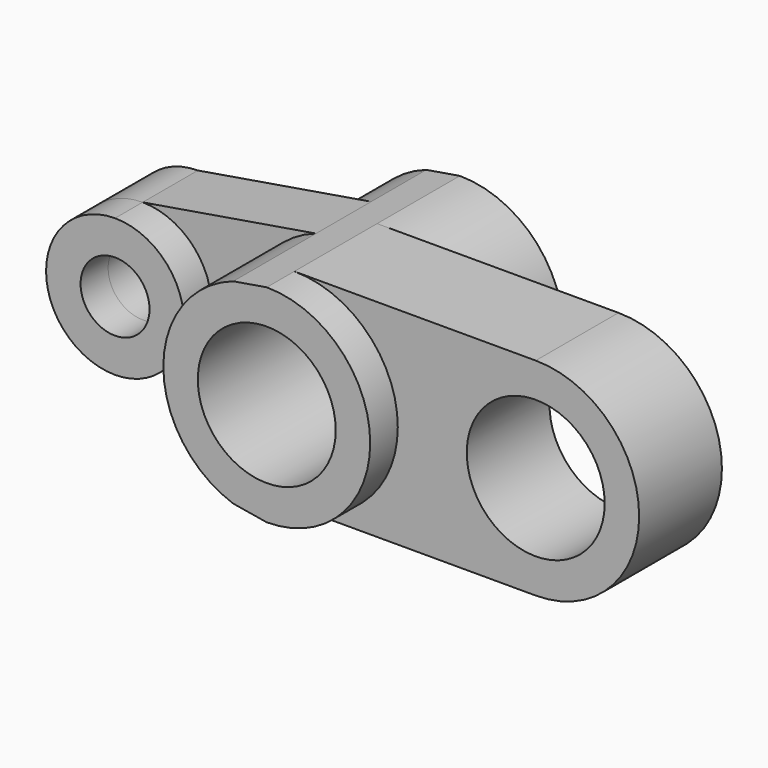
from build123d import *

# Parameters (mm, degrees)
F0_R     = 5
F1_DEPTH = 5
F0_R_2   = 10
F2_DEPTH = 15
F3_DEPTH = 10
F4_DEPTH = 5
F5_DEPTH = 20
F6_DEPTH = 10


with BuildPart() as f1:
    # F0 (on Front) → F1 (new body)
    with BuildSketch(Plane.XZ):
        with BuildLine():
            ThreePointArc((-20, 0), (-22.9289321881, 7.0710678119), (-30, 10))
            ThreePointArc((-30, 10), (-40, 0), (-30, -10))
            ThreePointArc((-30, -10), (-22.9289321881, -7.0710678119), (-20, 0))
        make_face()
        with Locations((-30, 0)):
            Circle(F0_R, mode=Mode.SUBTRACT)
    extrude(amount=F1_DEPTH)



with BuildPart() as f2:
    # F0 (on Front) → F2 (new body)
    with BuildSketch(Plane.XZ):
        with BuildLine():
            ThreePointArc((0, -15), (10.6066017178, -10.6066017178), (15, 0))
            ThreePointArc((15, 0), (10.6066017178, 10.6066017178), (0, 15))
            Line((0, 15), (-4.8648648649, 14.1891891892))
            ThreePointArc((-4.8648648649, 14.1891891892), (-15, 0), (-4.8648648649, -14.1891891892))
            Line((-4.8648648649, -14.1891891892), (0, -15))
        make_face()
        Circle(F0_R_2, mode=Mode.SUBTRACT)
    extrude(amount=F2_DEPTH)

    # F0 (on Front) → F3 (join)
    with BuildSketch(Plane.XZ):
        with BuildLine():
            ThreePointArc((50, 0), (45.6066017178, 10.6066017178), (35, 15))
            ThreePointArc((35, 15), (20, 0), (35, -15))
            ThreePointArc((35, -15), (45.6066017178, -10.6066017178), (50, 0))
        make_face()
        with Locations((35, 0)):
            Circle(F0_R_2, mode=Mode.SUBTRACT)
        with BuildLine():
            ThreePointArc((0, 15), (10.6066017178, 10.6066017178), (15, 0))
            ThreePointArc((15, 0), (10.6066017178, -10.6066017178), (0, -15))
            Line((0, -15), (35, -15))
            ThreePointArc((35, -15), (20, 0), (35, 15))
            Line((35, 15), (0, 15))
        make_face()
    extrude(amount=F3_DEPTH)

    # F0 (on Front) → F4 (join)
    with BuildSketch(Plane.XZ):
        with BuildLine():
            ThreePointArc((50, 0), (45.6066017178, 10.6066017178), (35, 15))
            ThreePointArc((35, 15), (20, 0), (35, -15))
            ThreePointArc((35, -15), (45.6066017178, -10.6066017178), (50, 0))
        make_face()
        with Locations((35, 0)):
            Circle(F0_R_2, mode=Mode.SUBTRACT)
        with BuildLine():
            ThreePointArc((0, 15), (10.6066017178, 10.6066017178), (15, 0))
            ThreePointArc((15, 0), (10.6066017178, -10.6066017178), (0, -15))
            Line((0, -15), (35, -15))
            ThreePointArc((35, -15), (20, 0), (35, 15))
            Line((35, 15), (0, 15))
        make_face()
    extrude(amount=-F4_DEPTH)

    # F0 (on Front) → F5 (join)
    with BuildSketch(Plane.XZ):
        with BuildLine():
            ThreePointArc((0, -15), (10.6066017178, -10.6066017178), (15, 0))
            ThreePointArc((15, 0), (10.6066017178, 10.6066017178), (0, 15))
            Line((0, 15), (-4.8648648649, 14.1891891892))
            ThreePointArc((-4.8648648649, 14.1891891892), (-15, 0), (-4.8648648649, -14.1891891892))
            Line((-4.8648648649, -14.1891891892), (0, -15))
        make_face()
        Circle(F0_R_2, mode=Mode.SUBTRACT)
    extrude(amount=-F5_DEPTH)


with BuildPart() as f1_1:
    add(f1.part)

    add(f2.part)  # F6 merges F2
    # F0 (on Front) → F6 (join)
    with BuildSketch(Plane.XZ):
        with BuildLine():
            ThreePointArc((-20, 0), (-22.9289321881, 7.0710678119), (-30, 10))
            ThreePointArc((-30, 10), (-40, 0), (-30, -10))
            ThreePointArc((-30, -10), (-22.9289321881, -7.0710678119), (-20, 0))
        make_face()
        with Locations((-30, 0)):
            Circle(F0_R, mode=Mode.SUBTRACT)
        with BuildLine():
            ThreePointArc((-4.8648648649, -14.1891891892), (-15, 0), (-4.8648648649, 14.1891891892))
            Line((-4.8648648649, 14.1891891892), (-30, 10))
            ThreePointArc((-30, 10), (-22.9289321881, 7.0710678119), (-20, 0))
            ThreePointArc((-20, 0), (-22.9289321881, -7.0710678119), (-30, -10))
            Line((-30, -10), (-4.8648648649, -14.1891891892))
        make_face()
    extrude(amount=-F6_DEPTH)


solid = f1_1.part
